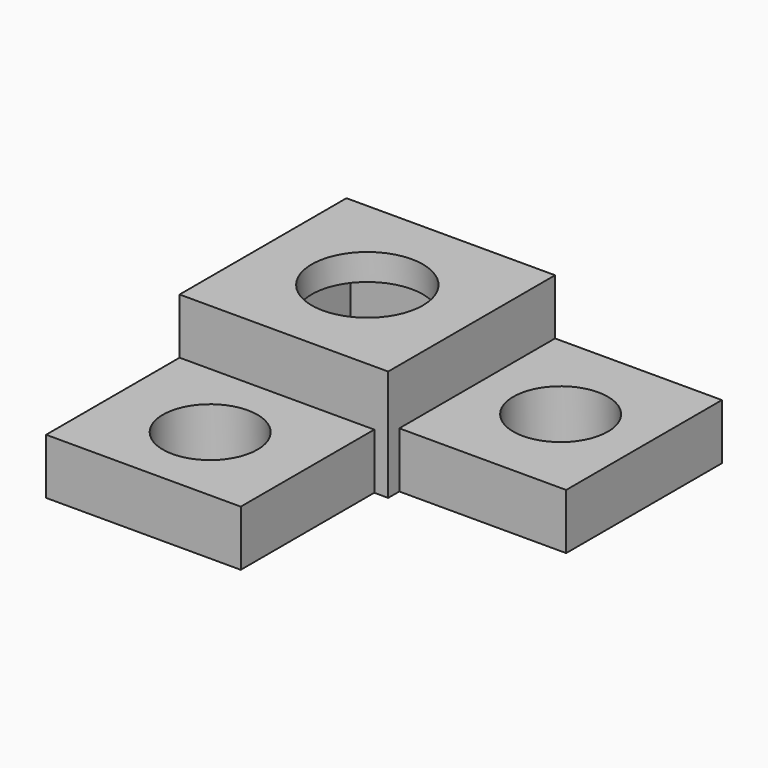
from build123d import *

# Parameters (mm, degrees)
SKETCH_W     = 7.5
SKETCH_H     = 7.5
SKETCH_W_2   = 6.05
SKETCH_H_2   = 6.05
PAD_DEPTH    = 3.05
SKETCH001_W  = 7.5
SKETCH001_H  = 7.5
PAD001_DEPTH = 0.95
SKETCH002_W  = 7
SKETCH002_H  = 2
PAD002_DEPTH = 6
SKETCH004_W  = 7
SKETCH004_H  = 2
PAD003_DEPTH = 6
SKETCH005_R  = 1.7
HOLE_DEPTH   = 25
SKETCH006_R  = 2
POCKET_DEPTH = 1


with BuildPart() as part:
    # Sketch → Pad (new body)
    with BuildSketch(Plane.XY):
        Rectangle(SKETCH_W, SKETCH_H)
        Rectangle(SKETCH_W_2, SKETCH_H_2, mode=Mode.SUBTRACT)
    extrude(amount=PAD_DEPTH)

    # Sketch001 (on Face10 of Pad) → Pad001 (join)
    with BuildSketch(Plane.XY.offset(3.05)):
        Rectangle(SKETCH001_W, SKETCH001_H)
    extrude(amount=PAD001_DEPTH)

    # Sketch002 (on Face10 of Pad001) → Pad002 (join)
    with BuildSketch(Plane.XZ.offset(3.75)):
        with Locations((-0.25, 1)):
            Rectangle(SKETCH002_W, SKETCH002_H)
    extrude(amount=PAD002_DEPTH)

    # Sketch004 (on Face2 of Pad002) → Pad003 (join)
    with BuildSketch(Plane.YZ.offset(3.75)):
        with Locations((0.25, 1)):
            Rectangle(SKETCH004_W, SKETCH004_H)
    extrude(amount=PAD003_DEPTH)

    # Sketch005 (on Face11 of Pad003) → Hole (cut)
    with BuildSketch(Plane(origin=(0, 0, 0), x_dir=(1, 0, 0), z_dir=(0, 0, -1))):
        with Locations((6.75, -0.25)):
            Circle(SKETCH005_R)
        with Locations((-0.25, 6.75)):
            Circle(SKETCH005_R)
    extrude(amount=-HOLE_DEPTH, mode=Mode.SUBTRACT)

    # Sketch006 (on Face3 of Hole) → Pocket (cut)
    with BuildSketch(Plane.XY.offset(4)):
        Circle(SKETCH006_R)
    extrude(amount=-POCKET_DEPTH, mode=Mode.SUBTRACT)


solid = part.part
